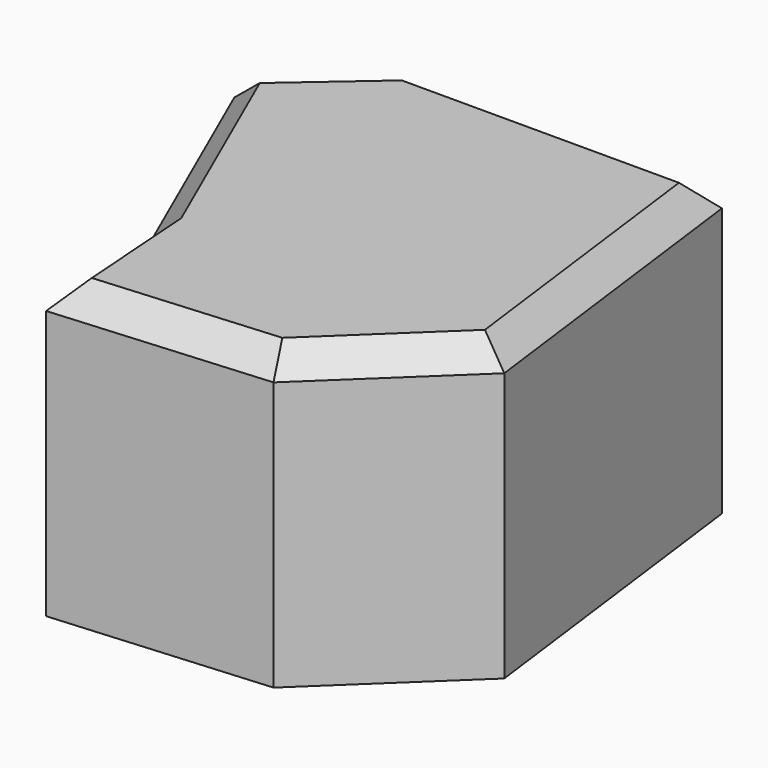
from build123d import *

# Parameters (mm, degrees)
F1_DEPTH = 58.443097
F2_SIZE  = 5.08


with BuildPart() as f1:
    # F0 (on Top) → F1 (new body)
    with BuildSketch(Plane.XY):
        with BuildLine():
            Line((-18.330865, 29.696003), (-39.228059, 11.548445))
            add(Edge.make_bspline(
                [(-19.247405, -34.095421), (-25.907624, -18.880798), (-32.567841, -3.666179), (-39.228059, 11.548445)],
                knots=[0, 0, 0, 0, 49.825586, 49.825586, 49.825586, 49.825586], degree=3))
            Line((-19.247405, -34.095421), (-17.23101, -62.691584))
            Line((-17.23101, -62.691584), (25.296614, -59.392035))
            Line((25.296614, -59.392035), (51.326454, -34.645349))
            Line((51.326454, -34.645349), (43.077558, 29.696003))
            Line((43.077558, 29.696003), (-18.330865, 29.696003))
        make_face()
    extrude(amount=F1_DEPTH)

    # F2
    f2_edges = [f1.edges().sort_by_distance(p)[0] for p in [
        (38.311534, -47.018692, 58.443097),
        (47.202006, -2.474673, 58.443097),
        (12.373347, 29.696003, 58.443097),
        (-28.779462, 20.622224, 58.443097),
        (-29.237732, -11.273488, 58.443097),
        (-18.239208, -48.393503, 58.443097),
        (4.032802, -61.04181, 58.443097),
    ]]
    chamfer(f2_edges, length=F2_SIZE)


solid = f1.part
